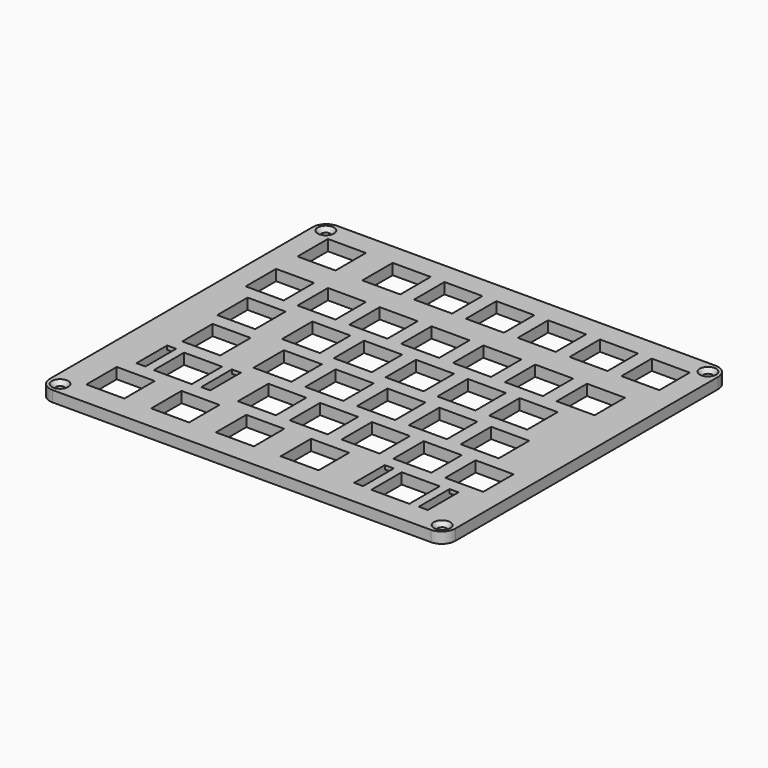
from build123d import *

# Parameters (mm, degrees)
LEFT_PLATE_PAD_DEPTH          = 4
LEFT_KEY_CUTOUTS_W            = 13.96
LEFT_KEY_CUTOUTS_H            = 13.96
LEFT_KEY_CUTOUTS_W_2          = 3.299
LEFT_KEY_CUTOUTS_H_2          = 14.1
LEFT_KEY_CUTOUTS_W_3          = 3.29901
LEFT_KEY_CUTOUTS_W_4          = 3.3004
LEFT_KEY_POCKETS_DEPTH        = 0.001
LEFT_KEY_POCKETS_DEPTH_BACK   = 4.001
LEFT_SCREW_HOLES_R            = 1.6
LEFT_SCREW_POCKETS_DEPTH      = 0.001
LEFT_SCREW_POCKETS_DEPTH_BACK = 4.001
LEFT_SCREW_COUNTERSINK_SIZE2  = 1.5
LEFT_SCREW_COUNTERSINK_SIZE   = 1.4
LEFT_STAB_RELIEF_W            = 3.299
LEFT_STAB_RELIEF_H            = 1.2
LEFT_STAB_RELIEF_W_2          = 3.29901
LEFT_STAB_RELIEF_W_3          = 3.3004
LEFT_STAB_RELIEF_POCKET_DEPTH = 2.6


with BuildPart() as part:
    # Left_Plate_Outline → Left_Plate_Pad (new body)
    with BuildSketch(Plane.XY):
        with BuildLine():
            Line((-0.38035, -5.791), (138.682, -5.791))
            ThreePointArc((138.682, -5.791), (142.217534, -4.326534), (143.682, -0.791))
            Line((143.682, -0.791), (143.682, 119.971))
            ThreePointArc((143.682, 119.971), (142.217534, 123.506534), (138.682, 124.971))
            Line((138.682, 124.971), (-0.38035, 124.971))
            ThreePointArc((-0.38035, 124.971), (-3.915884, 123.506534), (-5.38035, 119.971))
            Line((-5.38035, 119.971), (-5.38035, -0.791))
            ThreePointArc((-5.38035, -0.791), (-3.915884, -4.326534), (-0.38035, -5.791))
        make_face()
    extrude(amount=LEFT_PLATE_PAD_DEPTH)

    # Left_Key_Cutouts → Left_Key_Pockets (cut, two sides)
    with BuildSketch(Plane.XY) as left_key_pockets_sk:
        with Locations((12.000655, 9.959075)):
            Rectangle(LEFT_KEY_CUTOUTS_W, LEFT_KEY_CUTOUTS_H)
        with Locations((35.8124, 9.959075)):
            Rectangle(LEFT_KEY_CUTOUTS_W, LEFT_KEY_CUTOUTS_H)
        with Locations((59.62565, 9.959075)):
            Rectangle(LEFT_KEY_CUTOUTS_W, LEFT_KEY_CUTOUTS_H)
        with Locations((83.43745, 9.959075)):
            Rectangle(LEFT_KEY_CUTOUTS_W, LEFT_KEY_CUTOUTS_H)
        with Locations((116.7755, 9.959075)):
            Rectangle(LEFT_KEY_CUTOUTS_W, LEFT_KEY_CUTOUTS_H)
        with Locations((21.52565, 29.009)):
            Rectangle(LEFT_KEY_CUTOUTS_W, LEFT_KEY_CUTOUTS_H)
        with Locations((52.48185, 29.009)):
            Rectangle(LEFT_KEY_CUTOUTS_W, LEFT_KEY_CUTOUTS_H)
        with Locations((71.53185, 29.009)):
            Rectangle(LEFT_KEY_CUTOUTS_W, LEFT_KEY_CUTOUTS_H)
        with Locations((90.58185, 29.009)):
            Rectangle(LEFT_KEY_CUTOUTS_W, LEFT_KEY_CUTOUTS_H)
        with Locations((109.632, 29.009)):
            Rectangle(LEFT_KEY_CUTOUTS_W, LEFT_KEY_CUTOUTS_H)
        with Locations((128.682, 29.009)):
            Rectangle(LEFT_KEY_CUTOUTS_W, LEFT_KEY_CUTOUTS_H)
        with Locations((16.762465, 48.05905)):
            Rectangle(LEFT_KEY_CUTOUTS_W, LEFT_KEY_CUTOUTS_H)
        with Locations((42.95685, 48.05905)):
            Rectangle(LEFT_KEY_CUTOUTS_W, LEFT_KEY_CUTOUTS_H)
        with Locations((62.00685, 48.05905)):
            Rectangle(LEFT_KEY_CUTOUTS_W, LEFT_KEY_CUTOUTS_H)
        with Locations((81.05685, 48.05905)):
            Rectangle(LEFT_KEY_CUTOUTS_W, LEFT_KEY_CUTOUTS_H)
        with Locations((100.1071, 48.05905)):
            Rectangle(LEFT_KEY_CUTOUTS_W, LEFT_KEY_CUTOUTS_H)
        with Locations((119.157, 48.05905)):
            Rectangle(LEFT_KEY_CUTOUTS_W, LEFT_KEY_CUTOUTS_H)
        with Locations((14.38193, 67.10905)):
            Rectangle(LEFT_KEY_CUTOUTS_W, LEFT_KEY_CUTOUTS_H)
        with Locations((38.19435, 67.10905)):
            Rectangle(LEFT_KEY_CUTOUTS_W, LEFT_KEY_CUTOUTS_H)
        with Locations((57.24435, 67.10905)):
            Rectangle(LEFT_KEY_CUTOUTS_W, LEFT_KEY_CUTOUTS_H)
        with Locations((76.29435, 67.10905)):
            Rectangle(LEFT_KEY_CUTOUTS_W, LEFT_KEY_CUTOUTS_H)
        with Locations((95.34435, 67.10905)):
            Rectangle(LEFT_KEY_CUTOUTS_W, LEFT_KEY_CUTOUTS_H)
        with Locations((114.3945, 67.10905)):
            Rectangle(LEFT_KEY_CUTOUTS_W, LEFT_KEY_CUTOUTS_H)
        with Locations((9.619425, 86.15905)):
            Rectangle(LEFT_KEY_CUTOUTS_W, LEFT_KEY_CUTOUTS_H)
        with Locations((28.66935, 86.15905)):
            Rectangle(LEFT_KEY_CUTOUTS_W, LEFT_KEY_CUTOUTS_H)
        with Locations((47.71935, 86.15905)):
            Rectangle(LEFT_KEY_CUTOUTS_W, LEFT_KEY_CUTOUTS_H)
        with Locations((66.76935, 86.15905)):
            Rectangle(LEFT_KEY_CUTOUTS_W, LEFT_KEY_CUTOUTS_H)
        with Locations((85.81935, 86.15905)):
            Rectangle(LEFT_KEY_CUTOUTS_W, LEFT_KEY_CUTOUTS_H)
        with Locations((104.86865, 86.15905)):
            Rectangle(LEFT_KEY_CUTOUTS_W, LEFT_KEY_CUTOUTS_H)
        with Locations((123.9185, 86.15905)):
            Rectangle(LEFT_KEY_CUTOUTS_W, LEFT_KEY_CUTOUTS_H)
        with Locations((9.619425, 109.971)):
            Rectangle(LEFT_KEY_CUTOUTS_W, LEFT_KEY_CUTOUTS_H)
        with Locations((33.43185, 109.971)):
            Rectangle(LEFT_KEY_CUTOUTS_W, LEFT_KEY_CUTOUTS_H)
        with Locations((52.48185, 109.971)):
            Rectangle(LEFT_KEY_CUTOUTS_W, LEFT_KEY_CUTOUTS_H)
        with Locations((71.53185, 109.971)):
            Rectangle(LEFT_KEY_CUTOUTS_W, LEFT_KEY_CUTOUTS_H)
        with Locations((90.58185, 109.971)):
            Rectangle(LEFT_KEY_CUTOUTS_W, LEFT_KEY_CUTOUTS_H)
        with Locations((109.632, 109.971)):
            Rectangle(LEFT_KEY_CUTOUTS_W, LEFT_KEY_CUTOUTS_H)
        with Locations((128.682, 109.971)):
            Rectangle(LEFT_KEY_CUTOUTS_W, LEFT_KEY_CUTOUTS_H)
        with Locations((104.8755, 10.30935)):
            Rectangle(LEFT_KEY_CUTOUTS_W_2, LEFT_KEY_CUTOUTS_H_2)
        with Locations((128.6755, 10.30935)):
            Rectangle(LEFT_KEY_CUTOUTS_W_2, LEFT_KEY_CUTOUTS_H_2)
        with Locations((9.625595, 29.3594)):
            Rectangle(LEFT_KEY_CUTOUTS_W_3, LEFT_KEY_CUTOUTS_H_2)
        with Locations((33.425, 29.3594)):
            Rectangle(LEFT_KEY_CUTOUTS_W_4, LEFT_KEY_CUTOUTS_H_2)
    extrude(amount=-LEFT_KEY_POCKETS_DEPTH, mode=Mode.SUBTRACT)
    extrude(left_key_pockets_sk.sketch, amount=LEFT_KEY_POCKETS_DEPTH_BACK, mode=Mode.SUBTRACT)

    # Left_Screw_Holes → Left_Screw_Pockets (cut, two sides)
    with BuildSketch(Plane.XY) as left_screw_pockets_sk:
        with Locations((-1.08035, -1.491)):
            Circle(LEFT_SCREW_HOLES_R)
        with Locations((139.382, -1.491)):
            Circle(LEFT_SCREW_HOLES_R)
        with Locations((-1.08035, 120.671)):
            Circle(LEFT_SCREW_HOLES_R)
        with Locations((139.382, 120.671)):
            Circle(LEFT_SCREW_HOLES_R)
    extrude(amount=-LEFT_SCREW_POCKETS_DEPTH, mode=Mode.SUBTRACT)
    extrude(left_screw_pockets_sk.sketch, amount=LEFT_SCREW_POCKETS_DEPTH_BACK, mode=Mode.SUBTRACT)

    # Left_Screw_Countersink
    left_screw_countersink_edges = [part.edges().sort_by_distance(p)[0] for p in [
        (-2.68035, -1.491, 4),
        (137.782, -1.491, 4),
        (-2.68035, 120.671, 4),
        (137.782, 120.671, 4),
    ]]
    left_screw_countersink_side = part.faces().sort_by_distance((69.073982, 58.862052, 4))[0]
    chamfer(left_screw_countersink_edges, length=LEFT_SCREW_COUNTERSINK_SIZE, length2=LEFT_SCREW_COUNTERSINK_SIZE2, reference=left_screw_countersink_side)

    # Left_Stab_Relief → Left_Stab_Relief_Pocket (cut)
    with BuildSketch(Plane.XY):
        with Locations((104.8755, 17.95935)):
            Rectangle(LEFT_STAB_RELIEF_W, LEFT_STAB_RELIEF_H)
        with Locations((104.8755, 2.65935)):
            Rectangle(LEFT_STAB_RELIEF_W, LEFT_STAB_RELIEF_H)
        with Locations((128.6755, 17.95935)):
            Rectangle(LEFT_STAB_RELIEF_W, LEFT_STAB_RELIEF_H)
        with Locations((128.6755, 2.65935)):
            Rectangle(LEFT_STAB_RELIEF_W, LEFT_STAB_RELIEF_H)
        with Locations((9.625595, 37.0094)):
            Rectangle(LEFT_STAB_RELIEF_W_2, LEFT_STAB_RELIEF_H)
        with Locations((9.625595, 21.7094)):
            Rectangle(LEFT_STAB_RELIEF_W_2, LEFT_STAB_RELIEF_H)
        with Locations((33.425, 37.0094)):
            Rectangle(LEFT_STAB_RELIEF_W_3, LEFT_STAB_RELIEF_H)
        with Locations((33.425, 21.7094)):
            Rectangle(LEFT_STAB_RELIEF_W_3, LEFT_STAB_RELIEF_H)
    extrude(amount=LEFT_STAB_RELIEF_POCKET_DEPTH, mode=Mode.SUBTRACT)


solid = part.part
